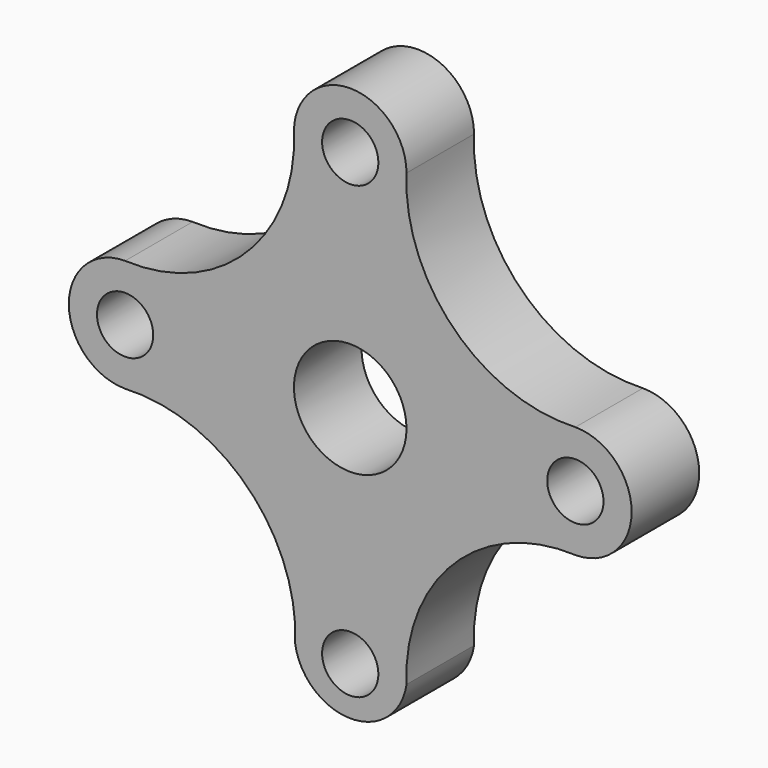
from build123d import *

# Parameters (mm, degrees)
F1_DEPTH = 19.05
F2_R     = 6.35
F2_R_2   = 12.7
F3_DEPTH = 50.8


with BuildPart() as f1:
    # F0 (on Front) → F1 (new body)
    with BuildSketch(Plane.XZ):
        with BuildLine():
            ThreePointArc((-12.7, 50.8), (-23.358147, 23.358147), (-50.8, 12.7))
            ThreePointArc((-50.8, 12.7), (-63.5, 0), (-50.8, -12.7))
            ThreePointArc((-50.8, -12.7), (-23.136197, -23.283192), (-12.421733, -50.896417))
            ThreePointArc((-12.421733, -50.896417), (0.180683, -61.674015), (12.7, -50.8))
            ThreePointArc((12.7, -50.8), (23.358147, -23.358147), (50.8, -12.7))
            ThreePointArc((50.8, -12.7), (63.5, 0), (50.8, 12.7))
            ThreePointArc((50.8, 12.7), (23.358147, 23.358147), (12.7, 50.8))
            ThreePointArc((12.7, 50.8), (0, 63.5), (-12.7, 50.8))
        make_face()
    extrude(amount=F1_DEPTH)

    # F2 (on Front) → F3 (cut)
    with BuildSketch(Plane.XZ):
        with Locations((0, 50.8)):
            Circle(F2_R)
        with Locations((50.8, 0)):
            Circle(F2_R)
        with Locations((0, -50.8)):
            Circle(F2_R)
        with Locations((-50.8, 0)):
            Circle(F2_R)
        Circle(F2_R_2)
    extrude(amount=F3_DEPTH, mode=Mode.SUBTRACT)


solid = f1.part
